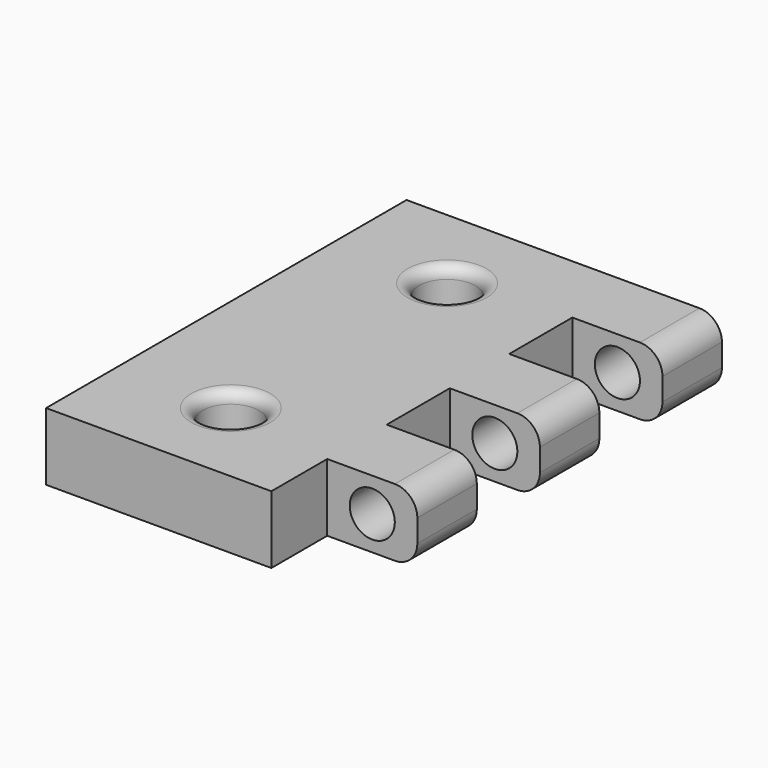
from build123d import *

# Parameters (mm, degrees)
F0_R     = 1.25
F1_DEPTH = 1.355102
F2_R     = 0.4
F3_R     = 1
F4_DEPTH = 18.831681
F5_DEPTH = 3
F6_R     = 1
F9_R     = 0.5


with BuildPart() as f1:
    # F0 (on Top) → F1 (new body)
    with BuildSketch(Plane.XY):
        Polygon((0, 12.436029), (-10, 12.436029), (-10, -7.563971), (0, -7.563971), (0, -4.463971), (4, -4.463971), (4, -1.163971), (0, -1.163971), (0, 2.336029), (4, 2.336029), (4, 5.636029), (0, 5.636029), (0, 9.136029), (4, 9.136029), (4, 12.436029), align=None)
        with Locations((-5, -3.563971)):
            Circle(F0_R, mode=Mode.SUBTRACT)
        with Locations((-5, 8.436029)):
            Circle(F0_R, mode=Mode.SUBTRACT)
        Polygon((0, 12.436029), (-10, 12.436029), (-10, -7.563971), (0, -7.563971), (0, -4.463971), (4, -4.463971), (4, -1.163971), (0, -1.163971), (0, 2.336029), (4, 2.336029), (4, 5.636029), (0, 5.636029), (0, 9.136029), (4, 9.136029), (4, 12.436029), align=None)
        with Locations((-5, -3.563971)):
            Circle(F0_R, mode=Mode.SUBTRACT)
        with Locations((-5, 8.436029)):
            Circle(F0_R, mode=Mode.SUBTRACT)
    extrude(amount=F1_DEPTH)

    # F2
    f2_edges = [f1.edges().sort_by_distance(p)[0] for p in [
        (4, -2.813971, 1.355102),
        (4, 3.986029, 1.355102),
        (4, 10.786029, 1.355102),
        (4, -2.813971, 0),
        (4, 3.986029, 0),
        (4, 10.786029, 0),
    ]]
    fillet(f2_edges, radius=F2_R)


with BuildPart() as f4:
    # F3 (on Front) → F4 (new body, symmetric)
    with BuildSketch(Plane.XZ):
        with Locations((2, 1.5)):
            Circle(F3_R)
    extrude(amount=F4_DEPTH, both=True)


with BuildPart() as f5:
    # F0 (on Top) → F5 (new body)
    with BuildSketch(Plane.XY):
        Polygon((0, 12.436029), (-10, 12.436029), (-10, -7.563971), (0, -7.563971), (0, -4.463971), (4, -4.463971), (4, -1.163971), (0, -1.163971), (0, 2.336029), (4, 2.336029), (4, 5.636029), (0, 5.636029), (0, 9.136029), (4, 9.136029), (4, 12.436029), align=None)
        with Locations((-5, -3.563971)):
            Circle(F0_R, mode=Mode.SUBTRACT)
        with Locations((-5, 8.436029)):
            Circle(F0_R, mode=Mode.SUBTRACT)
    extrude(amount=F5_DEPTH)

    # F6
    f6_edges = [f5.edges().sort_by_distance(p)[0] for p in [
        (4, -2.813971, 3),
        (4, 3.986029, 3),
        (4, 10.786029, 3),
        (4, 10.786029, 0),
        (4, 3.986029, 0),
        (4, -2.813971, 0),
    ]]
    fillet(f6_edges, radius=F6_R)

    # F7: cut F4
    add(f4.part, mode=Mode.SUBTRACT)

    # F9
    f9_edges = [f5.edges().sort_by_distance(p)[0] for p in [
        (-6.25, -3.563971, 3),
        (-6.25, 8.436029, 3),
        (-6.25, -3.563971, 0),
        (-6.25, 8.436029, 0),
    ]]
    fillet(f9_edges, radius=F9_R)


solid = f5.part
